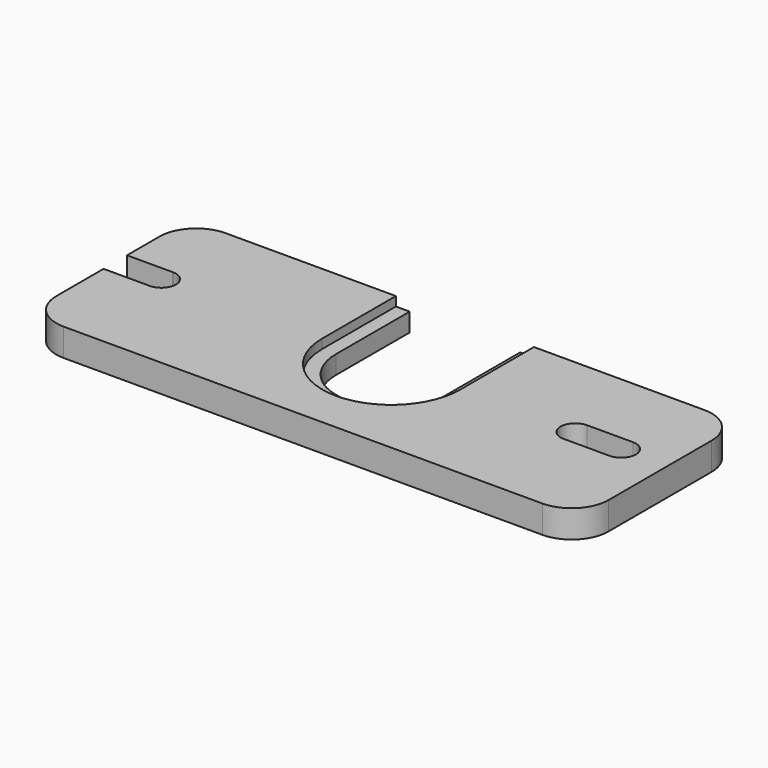
from build123d import *

# Parameters (mm, degrees)
F1_DEPTH = 3
F2_DEPTH = 2


with BuildPart() as f1:
    # F0 (on Top) → F1 (new body)
    with BuildSketch(Plane.XY):
        with BuildLine():
            Line((-26, -11), (26, -11))
            ThreePointArc((26, -11), (28.828427, -9.828427), (30, -7))
            Line((30, -7), (30, 7))
            ThreePointArc((30, 7), (28.828427, 9.828427), (26, 11))
            Line((26, 11), (7.490632, 11))
            Line((7.490632, 11), (7.490632, 1))
            ThreePointArc((7.490632, 1), (-0.009368, -6.5), (-7.509368, 1))
            Line((-7.509368, 1), (-7.509368, 11))
            Line((-7.509368, 11), (-26, 11))
            ThreePointArc((-26, 11), (-28.828428, 9.828427), (-30, 7))
            Line((-30, 7), (-30, 2.598375))
            Line((-30, 2.598375), (-25.072103, 2.598375))
            ThreePointArc((-25.072103, 2.598375), (-25, 2.6), (-24.927897, 2.598375))
            ThreePointArc((-24.927897, 2.598375), (-23.405025, 0.873291), (-25.181167, -0.58971))
            Line((-25.181167, -0.58971), (-30, -0.58971))
            Line((-30, -0.58971), (-30, -7))
            ThreePointArc((-30, -7), (-28.828428, -9.828427), (-26, -11))
        make_face()
        with BuildLine():
            ThreePointArc((24.981263, 2.6), (26.581263, 1), (24.981263, -0.6))
            Line((24.981263, -0.6), (19.981263, -0.6))
            ThreePointArc((19.981263, -0.6), (18.381263, 1), (19.981263, 2.6))
            Line((19.981263, 2.6), (24.981263, 2.6))
        make_face(mode=Mode.SUBTRACT)
    extrude(amount=F1_DEPTH)

    # F0 (on Top) → F2 (join)
    with BuildSketch(Plane.XY):
        with BuildLine():
            Line((7.490632, 1), (7.490632, 11))
            Line((7.490632, 11), (5.990632, 11))
            Line((5.990632, 11), (5.990632, 1))
            ThreePointArc((5.990632, 1), (-0.009368, -5), (-6.009368, 1))
            Line((-6.009368, 1), (-6.009368, 11))
            Line((-6.009368, 11), (-7.509368, 11))
            Line((-7.509368, 11), (-7.509368, 1))
            ThreePointArc((-7.509368, 1), (-0.009368, -6.5), (7.490632, 1))
        make_face()
    extrude(amount=F2_DEPTH)


solid = f1.part
